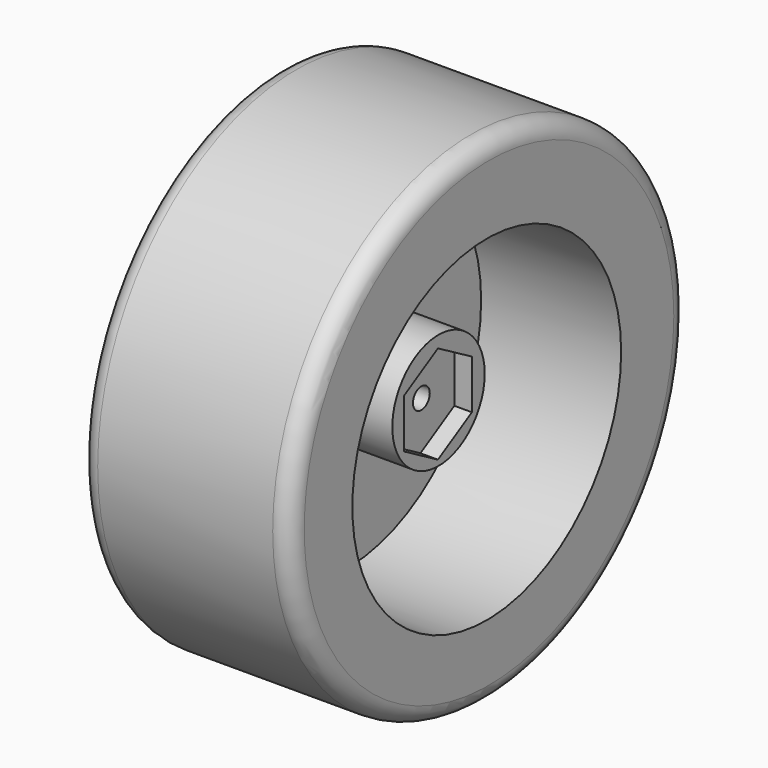
from build123d import *

# Parameters (mm, degrees)
SKETCH034_R     = 35.5
PAD014_DEPTH    = 30
FILLET018_R     = 2.5
FILLET019_R     = 2.5
SKETCH035_R     = 24
POCKET003_DEPTH = 20
SKETCH036_R     = 8.25
PAD015_DEPTH    = 12
POCKET004_DEPTH = 2.5
SKETCH038_R     = 1.5
POCKET005_DEPTH = 3.5


with BuildPart() as part:
    # Sketch034 → Pad014 (new body)
    with BuildSketch(Plane.YZ):
        with Locations((-2.086276, 2.086154)):
            Circle(SKETCH034_R)
    extrude(amount=PAD014_DEPTH)

    # Fillet018
    fillet018_edges = [part.edges().sort_by_distance(p)[0] for p in [
        (30, -37.586276, 2.086154),
    ]]
    fillet(fillet018_edges, radius=FILLET018_R)

    # Fillet019
    fillet019_edges = [part.edges().sort_by_distance(p)[0] for p in [
        (0, -37.586276, 2.086154),
    ]]
    fillet(fillet019_edges, radius=FILLET019_R)

    # Sketch035 (on Face3 of Pad014) → Pocket003 (cut)
    with BuildSketch(Plane.YZ.offset(30)):
        with Locations((-2.490074, 1.413427)):
            Circle(SKETCH035_R)
    extrude(amount=-POCKET003_DEPTH, mode=Mode.SUBTRACT)

    # Sketch036 (on Face7 of Pocket003) → Pad015 (join)
    with BuildSketch(Plane.YZ.offset(10)):
        with Locations((-1.106776, 1.902246)):
            Circle(SKETCH036_R)
    extrude(amount=PAD015_DEPTH)

    # Sketch037 (on Face9 of Pad015) → Pocket004 (cut)
    with BuildSketch(Plane.YZ.offset(22)):
        Polygon((4.852949, 4.988847), (-1.209229, 8.488847), (-7.271407, 4.988847), (-7.271407, -2.011153), (-1.209229, -5.511153), (4.852949, -2.011153), align=None)
    extrude(amount=-POCKET004_DEPTH, mode=Mode.SUBTRACT)

    # Sketch038 (on Face16 of Pocket004) → Pocket005 (cut)
    with BuildSketch(Plane.YZ.offset(19.5)):
        with Locations((-1.040093, 1.343548)):
            Circle(SKETCH038_R)
    extrude(amount=-POCKET005_DEPTH, mode=Mode.SUBTRACT)


with BuildPart() as part_1:
    # Body002 placement: moved
    add(part.part.moved(Location((-112, -11, 5))))


solid = part_1.part
